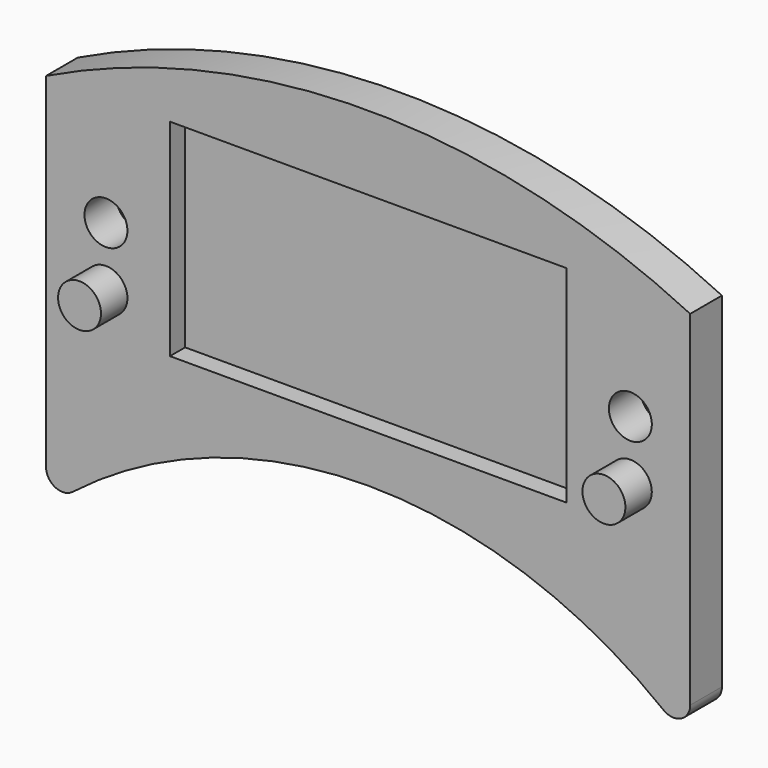
from build123d import *

# Parameters (mm, degrees)
F1_DEPTH = 4.8
F2_R     = 2.6
F3_DEPTH = 4
F4_R     = 2.6
F5_DEPTH = 4.8
F6_R     = 2
F7_W     = 48
F7_H     = 2.3
F8_DEPTH = 25


with BuildPart() as f1:
    # F0 (on Front) → F1 (new body)
    with BuildSketch(Plane.XZ):
        with BuildLine():
            Line((-39, 0), (-39, -46))
            ThreePointArc((-39, -46), (0, -31), (39, -46))
            Line((39, -46), (39, 0))
            ThreePointArc((39, 0), (0, 9), (-39, 0))
        make_face()
    extrude(amount=-F1_DEPTH)

    # F2 (on face) → F3 (join)
    with BuildSketch(Plane.XZ):
        with Locations((-31.75, -20.5)):
            Circle(F2_R)
        with Locations((31.75, -20.5)):
            Circle(F2_R)
    extrude(amount=F3_DEPTH)

    # F4 (on face) → F5 (cut, through all)
    with BuildSketch(Plane(origin=(0, 4.8, 0), x_dir=(-1, 0, 0), z_dir=(0, 1, 0))):
        with Locations((-31.75, -13.3)):
            Circle(F4_R)
        with Locations((31.75, -13.3)):
            Circle(F4_R)
    extrude(amount=-F5_DEPTH, mode=Mode.SUBTRACT)

    # F6
    f6_edges = [f1.edges().sort_by_distance(p)[0] for p in [
        (-39, 2.4, -46),
        (39, 2.4, -46),
    ]]
    fillet(f6_edges, radius=F6_R)

    # F7 (on Top) → F8 (cut)
    with BuildSketch(Plane.XY):
        with Locations((0, 1.15)):
            Rectangle(F7_W, F7_H)
    extrude(amount=-F8_DEPTH, mode=Mode.SUBTRACT)


solid = f1.part
